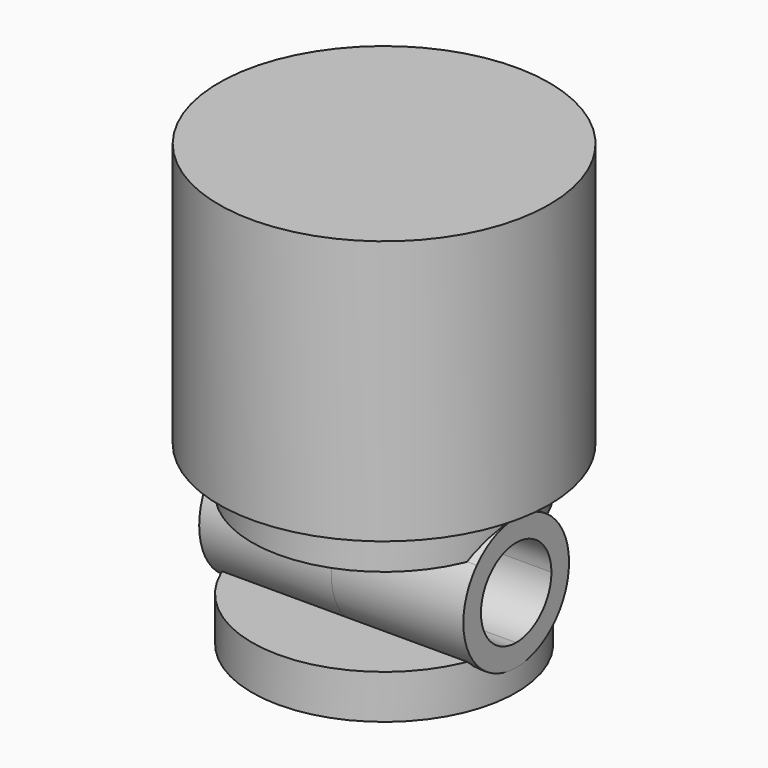
from build123d import *

# Parameters (mm, degrees)
F0_R          = 37.5
F0_R_2        = 32.4999988079
F1_DEPTH      = 60
F4_DEPTH      = 30
F4_DEPTH_BACK = 30


with BuildPart() as f1:
    # F0 (on Top) → F1 (new body)
    with BuildSketch(Plane.XY):
        Circle(F0_R)
        Circle(F0_R_2, mode=Mode.SUBTRACT)
        Circle(F0_R_2)
    extrude(amount=F1_DEPTH)

    # F2 (on Right) → F3 (revolve)
    with BuildSketch(Plane.YZ):
        with BuildLine():
            ThreePointArc((-11.1803398875, -10), (-6.123724357, -6.3069360624), (0, -5))
            Line((0, -5), (0, 0))
            Line((0, 0), (-30, 0))
            Line((-30, 0), (-30, -10))
            Line((-30, -10), (-11.1803398875, -10))
        make_face()
    revolve(axis=Axis((0, 0, -10), (0, 0, -1)))


with BuildPart() as f3:
    # F2 (on Right) → F3, piece 2 (revolve)
    with BuildSketch(Plane.YZ):
        with BuildLine():
            Line((0, -40), (0, -35))
            ThreePointArc((0, -35), (-6.123724357, -33.6930639376), (-11.1803398875, -30))
            Line((-11.1803398875, -30), (-30, -30))
            Line((-30, -30), (-30, -40))
            Line((-30, -40), (0, -40))
        make_face()
    revolve(axis=Axis((0, 0, -10), (0, 0, -1)))


with BuildPart() as f4:
    # F2 (on Right) → F4 (new body, two sides)
    with BuildSketch(Plane.YZ) as f4_sk:
        with BuildLine():
            Line((-11.1803398875, -10), (0, -10))
            Line((0, -10), (0, -5))
            ThreePointArc((0, -5), (-6.123724357, -6.3069360624), (-11.1803398875, -10))
        make_face()
        with BuildLine():
            ThreePointArc((0, -30), (-10, -20), (0, -10))
            Line((0, -10), (-11.1803398875, -10))
            ThreePointArc((-11.1803398875, -10), (-15, -20), (-11.1803398875, -30))
            Line((-11.1803398875, -30), (0, -30))
        make_face()
        with BuildLine():
            Line((0, -35), (0, -30))
            Line((0, -30), (-11.1803398875, -30))
            ThreePointArc((-11.1803398875, -30), (-6.123724357, -33.6930639376), (0, -35))
        make_face()
        with BuildLine():
            Line((0, -5), (0, -10))
            ThreePointArc((0, -10), (7.0710678119, -12.9289321881), (10, -20))
            ThreePointArc((10, -20), (7.0710678119, -27.0710678119), (0, -30))
            Line((0, -30), (0, -35))
            ThreePointArc((0, -35), (10.6066017178, -30.6066017178), (15, -20))
            ThreePointArc((15, -20), (10.6066017178, -9.3933982822), (0, -5))
        make_face()
    extrude(amount=F4_DEPTH)
    extrude(f4_sk.sketch, amount=-F4_DEPTH_BACK)


solid = Compound([f1.part, f3.part, f4.part])
